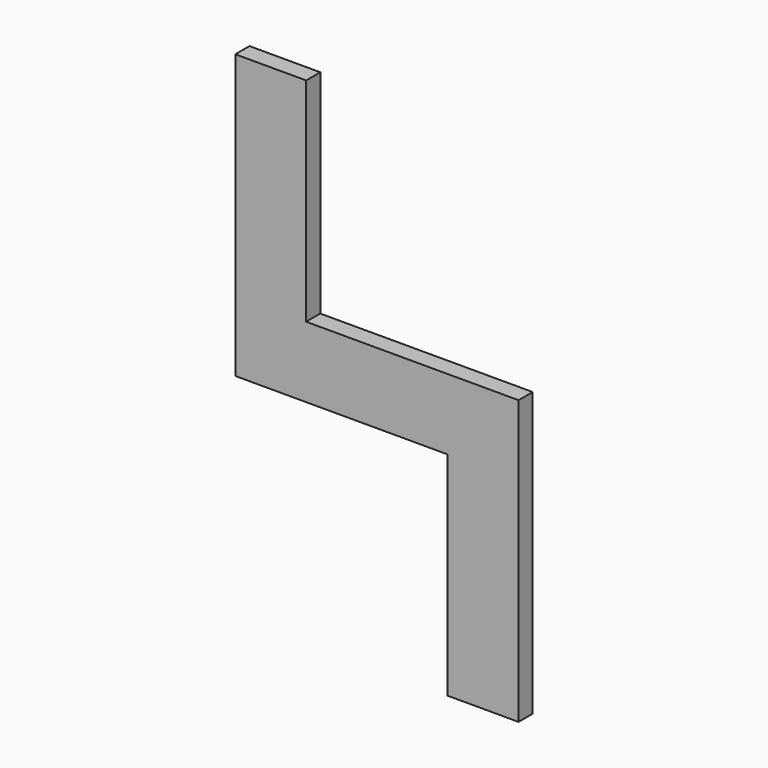
from build123d import *

# Parameters (mm, degrees)
F0_W     = 12.7
F0_H     = 38.1
F0_H_2   = 12.7
F0_W_2   = 25.4
F1_DEPTH = 3.175


with BuildPart() as f1:
    # F0 (on Front) → F1 (new body)
    with BuildSketch(Plane.XZ):
        with Locations((-19.05, 25.4)):
            Rectangle(F0_W, F0_H)
        with Locations((-19.05, 0)):
            Rectangle(F0_W, F0_H_2)
        Rectangle(F0_W_2, F0_H_2)
        with Locations((19.05, 0)):
            Rectangle(F0_W, F0_H_2)
        with Locations((19.05, -25.4)):
            Rectangle(F0_W, F0_H)
    extrude(amount=F1_DEPTH)


solid = f1.part
